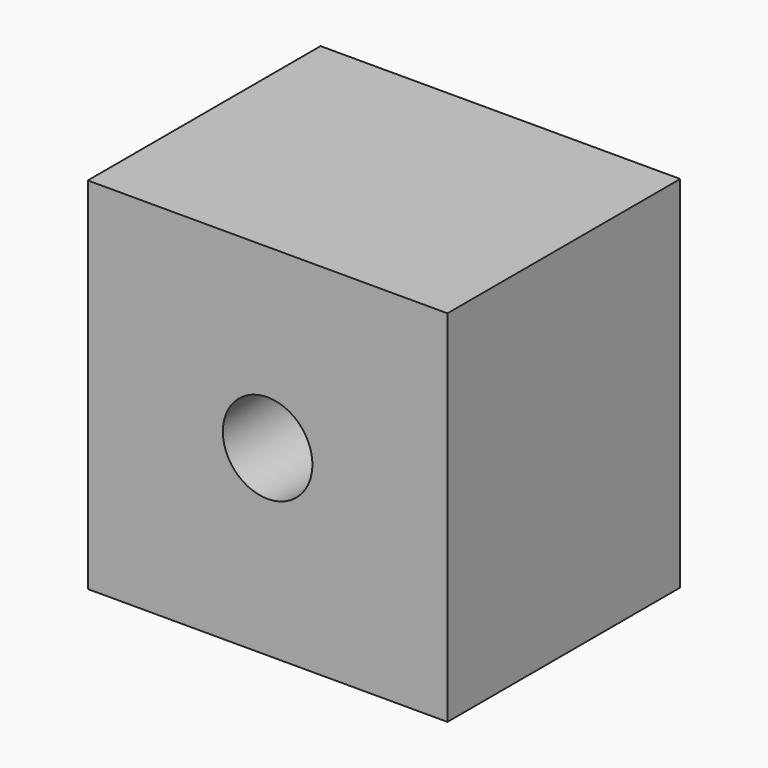
from build123d import *

# Parameters (mm, degrees)
F0_W     = 40.18
F0_H     = 40.18
F1_DEPTH = 32.5
F3_D     = 10
F3_DEPTH = 10
F3_TIP   = 3.0043030951


with BuildPart() as f1:
    # F0 (on Front) → F1 (new body)
    with BuildSketch(Plane.XZ):
        with Locations((-34.9699209964, -0.3048770541)):
            Rectangle(F0_W, F0_H)
    extrude(amount=F1_DEPTH)

    # F3
    with Locations(Plane.XZ.offset(32.5)):
        with Locations((-34.9699209964, 0)):
            Hole(F3_D / 2, depth=F3_DEPTH)
            with Locations((0, 0, -(F3_DEPTH + F3_TIP / 2))):  # 118° drill point
                Cone(0, F3_D / 2, F3_TIP, mode=Mode.SUBTRACT)


solid = f1.part
